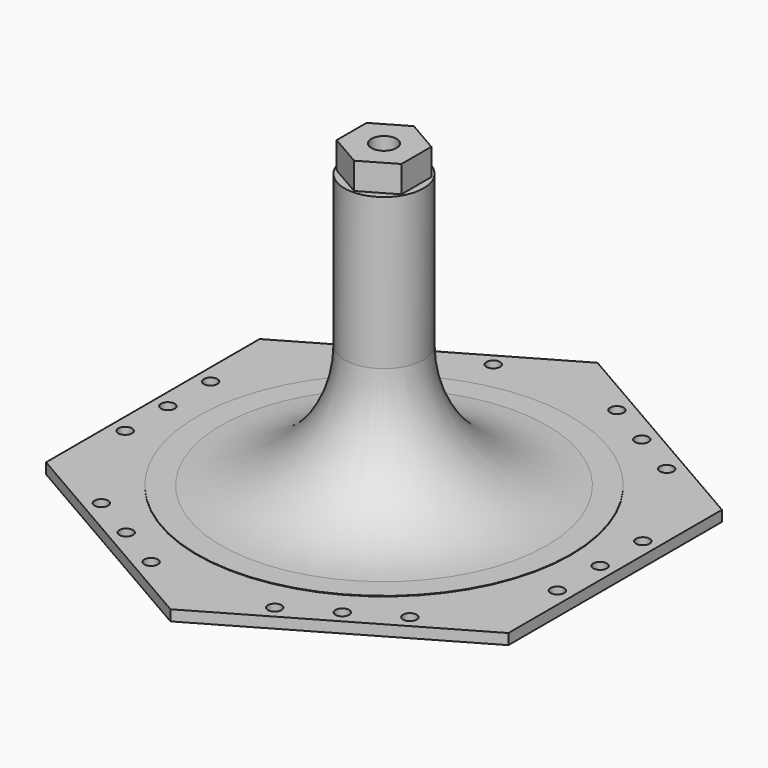
from build123d import *

# Parameters (mm, degrees)
SKETCH001_R        = 4.7
PAD_DEPTH          = 4
SKETCH002_R        = 4.7
PAD001_DEPTH       = 10
SKETCH003_R        = 2.55
POCKET_DEPTH       = 5
POLARPATTERN_COUNT = 6


with BuildPart() as part:
    # Sketch → Revolution (revolve)
    with BuildSketch(Plane.XZ):
        with BuildLine():
            Line((14.8, 46.4), (14.8, 103))
            Line((14.8, 103), (4.7, 103))
            Line((4.7, 103), (4.7, 0))
            Line((4.7, 0), (70, 0))
            Line((70, 0), (70, 0.2))
            Line((70, 0.2), (61, 0.2))
            ThreePointArc((14.8, 46.4), (28.331667, 13.731667), (61, 0.2))
        make_face()
    revolve(axis=Axis((0, 0, 0), (0, 0, 1)))

    # Sketch001 (on Face4 of Revolution) → Pad (new body)
    with BuildSketch(Plane(origin=(0, 0, 0), x_dir=(1, 0, 0), z_dir=(0, 0, -1))):
        Polygon((0, 100), (-86.60254, 50), (-86.60254, -50), (0, -100), (86.60254, -50), (86.60254, 50), align=None)
        Circle(SKETCH001_R, mode=Mode.SUBTRACT)
    extrude(amount=PAD_DEPTH)

    # Sketch002 (on Face3 of Pad) → Pad001 (join)
    with BuildSketch(Plane(origin=(0, 0, 103), x_dir=(-1, 0, 0), z_dir=(0, 0, 1))):
        Polygon((0, 14), (-12.124356, 7), (-12.124356, -7), (0, -14), (12.124356, -7), (12.124356, 7), align=None)
        Circle(SKETCH002_R, mode=Mode.SUBTRACT)
    extrude(amount=PAD001_DEPTH)

    # Sketch003 (on Face28 of Pad001) → Pocket (cut)
    with BuildSketch(Plane(origin=(0, 0, -4), x_dir=(1, 0, 0), z_dir=(0, 0, -1))):
        with Locations((-57.807196, 60.125)):
            Circle(SKETCH003_R)
        with Locations((-40.486688, 70.125)):
            Circle(SKETCH003_R)
        with Locations((-23.16618, 80.125)):
            Circle(SKETCH003_R)
    pocket = extrude(amount=-POCKET_DEPTH, mode=Mode.SUBTRACT)

    # PolarPattern: Pocket ×6 about axis
    polarpattern_axis = Axis((0, 0, -4), (0, 0, -1))
    for i in range(1, POLARPATTERN_COUNT):
        add(pocket.rotate(polarpattern_axis, i * 360 / POLARPATTERN_COUNT), mode=Mode.SUBTRACT)


solid = part.part
